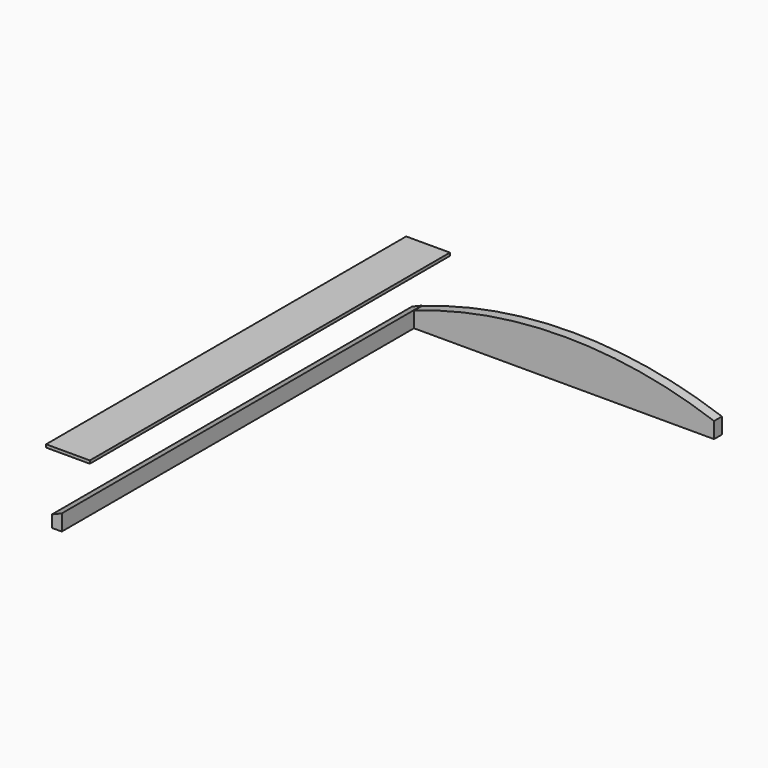
from build123d import *

# Parameters (mm, degrees)
F1_DEPTH = 20
F2_W     = 88.9
F2_H     = 6
F3_DEPTH = 914.4
F5_DEPTH = 914.4


with BuildPart() as f1:
    # F0 (on Front) → F1 (new body)
    with BuildSketch(Plane.XZ):
        with BuildLine():
            Line((0, 31.73589), (0, 0))
            Line((0, 0), (609.6, 0))
            Line((609.6, 0), (609.6, 32.495205))
            ThreePointArc((609.6, 32.495205), (304.734906, 84.374633), (0, 31.73589))
        make_face()
    extrude(amount=F1_DEPTH)


with BuildPart() as f3:
    # F2 (on Front) → F3 (new body)
    with BuildSketch(Plane.XZ):
        with Locations((12.581605, 142.819503)):
            Rectangle(F2_W, F2_H)
    extrude(amount=F3_DEPTH)


with BuildPart() as f5:
    # F4 (on Front) → F5 (new body)
    with BuildSketch(Plane.XZ):
        Polygon((-20, 0), (0, 0), (0, 32.513209), (-20, 24.250794), align=None)
    extrude(amount=F5_DEPTH)


solid = Compound([f1.part, f3.part, f5.part])
